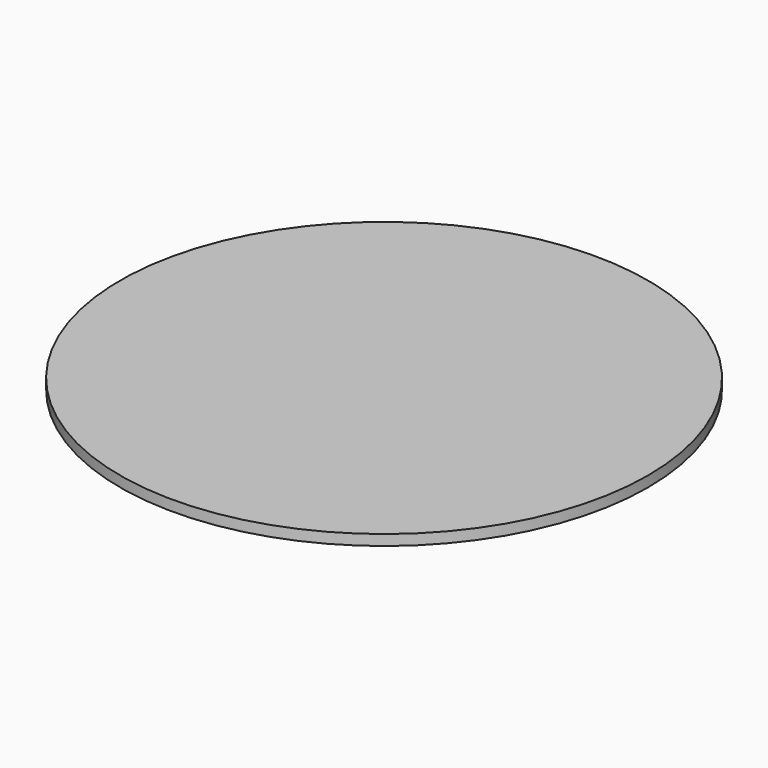
from build123d import *

# Parameters (mm, degrees)
SKETCH_R  = 50
PAD_DEPTH = 2


with BuildPart() as part:
    # Sketch → Pad (new body)
    with BuildSketch(Plane.XY):
        Circle(SKETCH_R)
    extrude(amount=PAD_DEPTH)


solid = part.part
